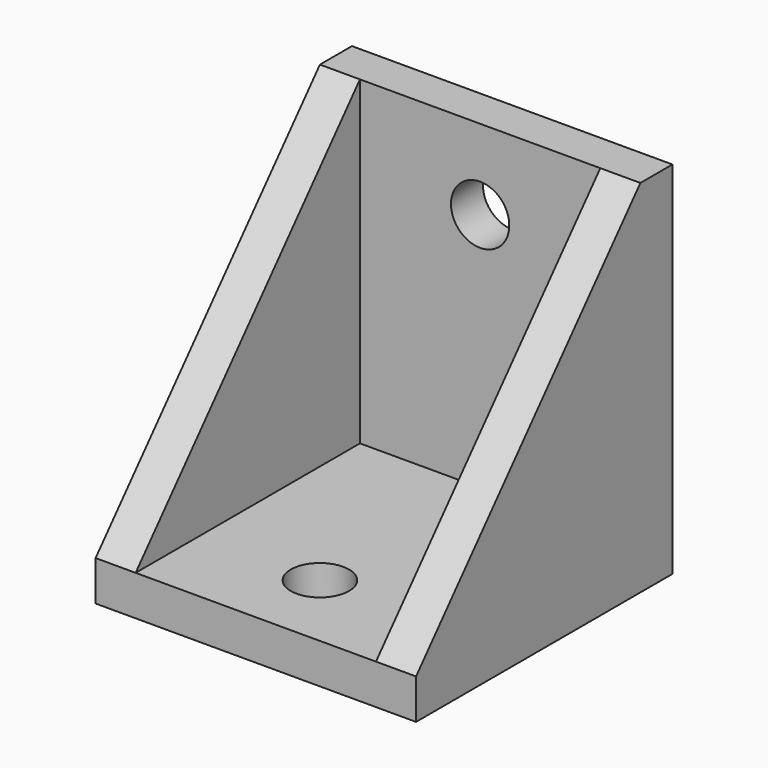
from build123d import *

# Parameters (mm, degrees)
F1_DEPTH = 3.175
F2_W     = 25.4
F2_H     = 3.175
F3_DEPTH = 22.225
F4_R     = 2.3114
F5_DEPTH = 25.4
F7_DEPTH = 3.175
F9_DEPTH = 3.175


with BuildPart() as f1:
    # F0 (on Front) → F1 (new body)
    with BuildSketch(Plane.XZ):
        Polygon((-25.4, 0), (0, 0), (0, 28.575), (-25.4, 28.575), (-25.4, 22.225), (-25.4, 3.175), align=None)
        with BuildLine():
            ThreePointArc((-10.3886, 22.225), (-12.7, 19.9136), (-15.0114, 22.225))
            ThreePointArc((-15.0114, 22.225), (-12.7, 24.5364), (-10.3886, 22.225))
        make_face(mode=Mode.SUBTRACT)
    extrude(amount=F1_DEPTH)

    # F2 (on face) → F3 (join)
    with BuildSketch(Plane.XZ.offset(3.175)):
        with Locations((-12.7, 1.5875)):
            Rectangle(F2_W, F2_H)
    extrude(amount=F3_DEPTH)

    # F4 (on face) → F5 (cut)
    with BuildSketch(Plane.XY.offset(3.175)):
        with Locations((-12.7, -19.05)):
            Circle(F4_R)
    extrude(amount=-F5_DEPTH, mode=Mode.SUBTRACT)

    # F6 (on face) → F7 (join)
    with BuildSketch(Plane.YZ):
        Polygon((-3.175, 28.575), (-25.4, 3.175), (-3.175, 3.175), align=None)
    extrude(amount=-F7_DEPTH)

    # F8 (on face) → F9 (join)
    with BuildSketch(Plane(origin=(-25.4, 0, 0), x_dir=(0, -1, 0), z_dir=(-1, 0, 0))):
        Polygon((3.175, 3.175), (25.4, 3.175), (3.175, 28.575), align=None)
    extrude(amount=-F9_DEPTH)


solid = f1.part
